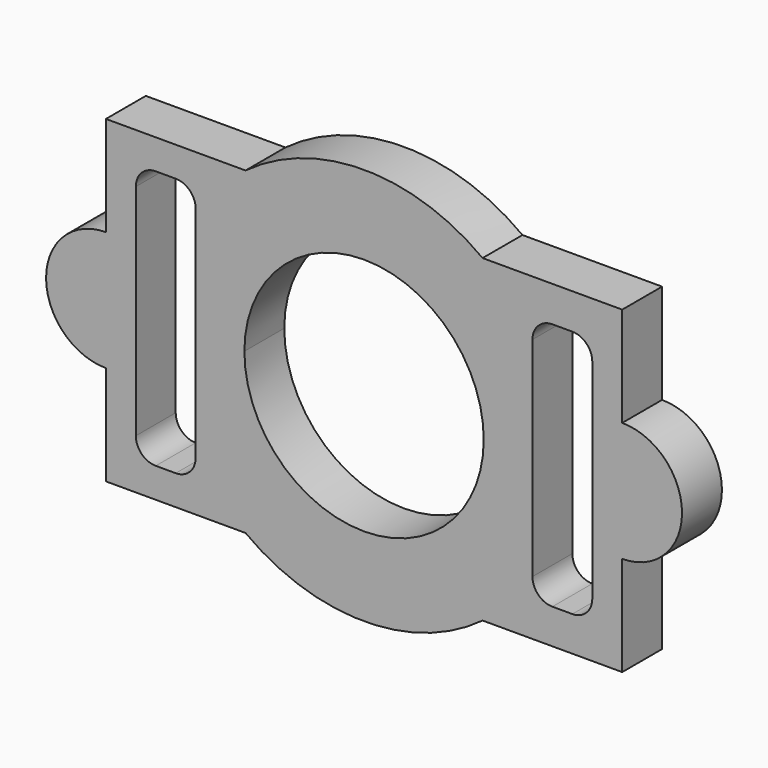
from build123d import *

# Parameters (mm, degrees)
F1_DEPTH = 25


with BuildPart() as f1:
    # F0 (on Front) → F1 (new body)
    with BuildSketch(Plane.XZ):
        with BuildLine():
            Line((-59.432037, 80), (-129.432037, 80))
            Line((-129.432037, 80), (-129.432037, 30))
            ThreePointArc((-129.432037, 30), (-159.432037, 0), (-129.432037, -30))
            Line((-129.432037, -30), (-129.432037, -80))
            Line((-129.432037, -80), (-59.432037, -80))
            ThreePointArc((-59.432037, -80), (0, -99.660258), (59.432037, -80))
            Line((59.432037, -80), (129.432037, -80))
            Line((129.432037, -80), (129.432037, -30))
            ThreePointArc((129.432037, -30), (159.432037, 0), (129.432037, 30))
            Line((129.432037, 30), (129.432037, 80))
            Line((129.432037, 80), (59.432037, 80))
            ThreePointArc((59.432037, 80), (0, 99.660258), (-59.432037, 80))
        make_face()
        with BuildLine():
            Line((84.432037, -52.494368), (84.432037, 0))
            Line((84.432037, 0), (84.432037, 52.154386))
            ThreePointArc((84.432037, 52.154386), (87.36097, 59.225454), (94.432037, 62.154386))
            Line((94.432037, 62.154386), (104.432037, 62.154386))
            ThreePointArc((104.432037, 62.154386), (111.503105, 59.225454), (114.432037, 52.154386))
            Line((114.432037, 52.154386), (114.432037, -52.494368))
            ThreePointArc((114.432037, -52.494368), (111.503105, -59.565436), (104.432037, -62.494368))
            Line((104.432037, -62.494368), (94.432037, -62.494368))
            ThreePointArc((94.432037, -62.494368), (87.36097, -59.565436), (84.432037, -52.494368))
        make_face(mode=Mode.SUBTRACT)
        with BuildLine():
            Line((-84.432037, 55), (-84.432037, 0))
            Line((-84.432037, 0), (-84.432037, -55))
            ThreePointArc((-84.432037, -55), (-87.36097, -62.071068), (-94.432037, -65))
            Line((-94.432037, -65), (-104.432037, -65))
            ThreePointArc((-104.432037, -65), (-111.503105, -62.071068), (-114.432037, -55))
            Line((-114.432037, -55), (-114.432037, 55))
            ThreePointArc((-114.432037, 55), (-111.503105, 62.071068), (-104.432037, 65))
            Line((-104.432037, 65), (-94.432037, 65))
            ThreePointArc((-94.432037, 65), (-87.36097, 62.071068), (-84.432037, 55))
        make_face(mode=Mode.SUBTRACT)
        with BuildLine():
            ThreePointArc((0, 60), (42.426407, 42.426407), (60, 0))
            ThreePointArc((60, 0), (0, -60), (-60, 0))
            ThreePointArc((-60, 0), (-42.426407, 42.426407), (0, 60))
        make_face(mode=Mode.SUBTRACT)
    extrude(amount=F1_DEPTH)


solid = f1.part
